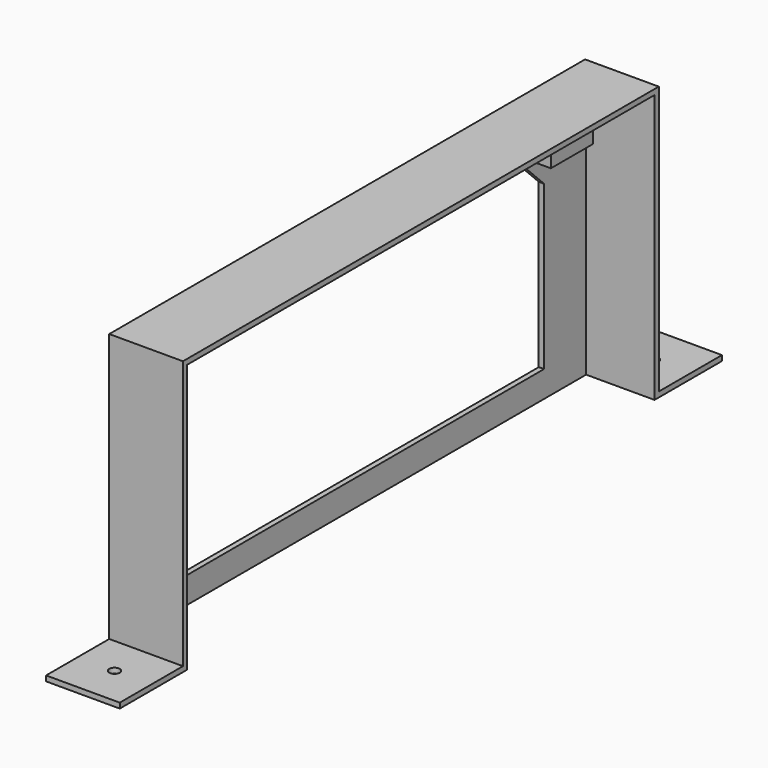
from build123d import *

# Parameters (mm, degrees)
F0_W     = 14
F0_H     = 113
F1_DEPTH = 52
F2_W     = 13
F2_H     = 111
F3_DEPTH = 51
F4_W     = 14
F4_H     = 15
F4_R     = 1
F5_DEPTH = 1
F7_DEPTH = 1
F8_W     = 10
F8_H     = 10
F9_DEPTH = 3.7


with BuildPart() as f1:
    # F0 (on Top) → F1 (new body)
    with BuildSketch(Plane.XY):
        with Locations((-7, 0)):
            Rectangle(F0_W, F0_H)
    extrude(amount=F1_DEPTH)

    # F2 (on face) → F3 (cut)
    with BuildSketch(Plane(origin=(0, 0, 0), x_dir=(1, 0, 0), z_dir=(0, 0, -1))):
        with Locations((-6.5, 0)):
            Rectangle(F2_W, F2_H)
    extrude(amount=-F3_DEPTH, mode=Mode.SUBTRACT)

    # F4 (on Top) → F5 (join)
    with BuildSketch(Plane.XY):
        with Locations((-7, 64)):
            Rectangle(F4_W, F4_H)
        with Locations((-7, 64)):
            Circle(F4_R, mode=Mode.SUBTRACT)
        with Locations((-7, -64)):
            Rectangle(F4_W, F4_H)
        with Locations((-7, -64)):
            Circle(F4_R, mode=Mode.SUBTRACT)
    extrude(amount=F5_DEPTH)

    # F6 (on face) → F7 (cut)
    with BuildSketch(Plane.YZ.offset(-13)):
        Polygon((-45.5, 36), (-45.5, 5), (45.5, 5), (45.5, 36), (34.5, 47), (-34.5, 47), align=None)
    extrude(amount=-F7_DEPTH, mode=Mode.SUBTRACT)

    # F8 (on face) → F9 (join)
    with BuildSketch(Plane.YZ.offset(-13)):
        with Locations((-50.5, 46)):
            Rectangle(F8_W, F8_H)
        with Locations((47.5, 46)):
            Rectangle(F8_W, F8_H)
        with Locations((-50.5, 46)):
            Rectangle(F8_W, F8_H)
        with Locations((47.5, 46)):
            Rectangle(F8_W, F8_H)
    extrude(amount=F9_DEPTH)


solid = f1.part
